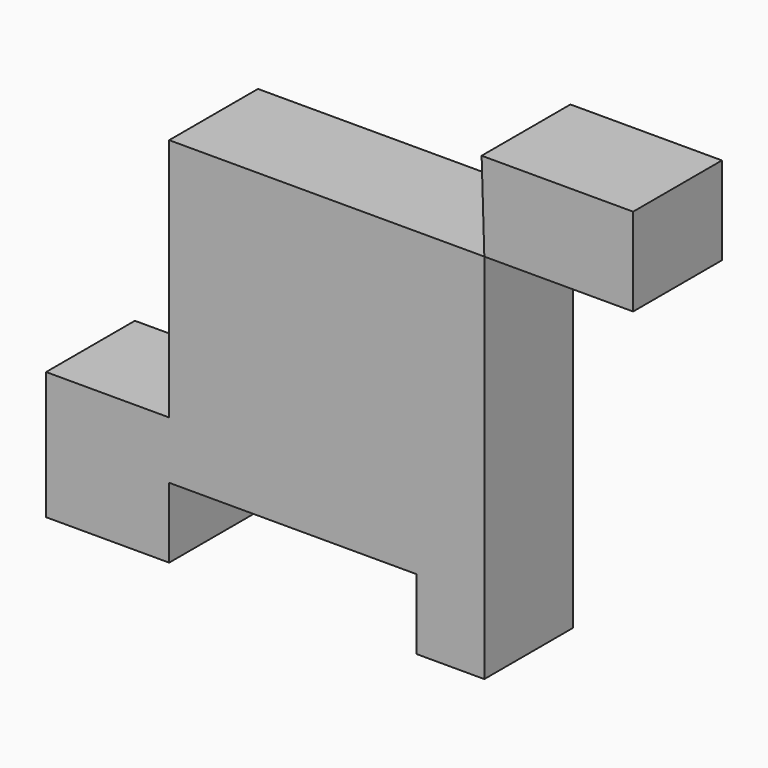
from build123d import *

# Parameters (mm, degrees)
F1_DEPTH = 25.4


with BuildPart() as f1:
    # F0 (on Front) → F1 (new body)
    with BuildSketch(Plane.XZ):
        Polygon((34.975361, 75.986288), (35.594393, 55.867717), (69.641203, 55.867717), (69.641203, 75.986288), align=None)
        Polygon((35.594393, 55.867717), (0, 55.867717), (-36.52294, 55.867717), (-36.52294, 0), (-64.688936, 0), (-64.688936, -29.249305), (-36.52294, -29.249305), (-36.52294, -13.154449), (20.11857, -13.154449), (20.11857, -29.249305), (35.594393, -29.249305), align=None)
    extrude(amount=F1_DEPTH)


solid = f1.part
